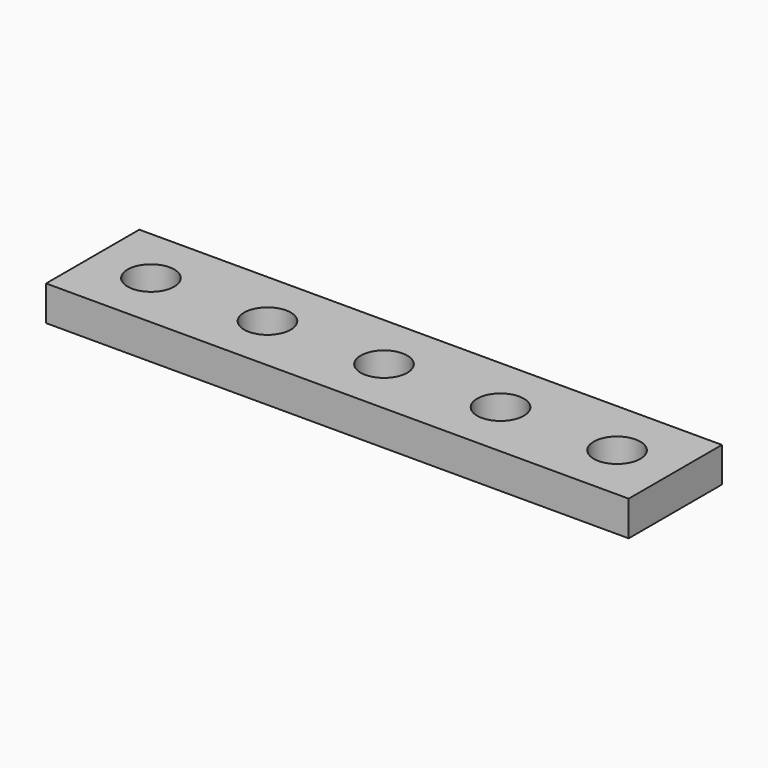
from build123d import *

# Parameters (mm, degrees)
CYLINDER001_R     = 2
CYLINDER001_DEPTH = 10
CYLINDER005_R     = 2
CYLINDER005_DEPTH = 10
CYLINDER004_R     = 2
CYLINDER004_DEPTH = 10
CYLINDER003_R     = 2
CYLINDER003_DEPTH = 10
CYLINDER002_R     = 2
CYLINDER002_DEPTH = 10
BOX_W             = 50
BOX_H             = 10
BOX_DEPTH         = 3


with BuildPart() as cilindro001:
    # Cylinder001 → Cylinder001 (new body)
    with BuildSketch(Plane(origin=(45, 5, 0), x_dir=(0, 1, 0), z_dir=(0, 0, 1))):
        Circle(CYLINDER001_R)
    extrude(amount=CYLINDER001_DEPTH)


with BuildPart() as cilindro005:
    # Cylinder005 → Cylinder005 (new body)
    with BuildSketch(Plane(origin=(35, 5, 0), x_dir=(0, 1, 0), z_dir=(0, 0, 1))):
        Circle(CYLINDER005_R)
    extrude(amount=CYLINDER005_DEPTH)


with BuildPart() as cilindro004:
    # Cylinder004 → Cylinder004 (new body)
    with BuildSketch(Plane(origin=(25, 5, 0), x_dir=(0, 1, 0), z_dir=(0, 0, 1))):
        Circle(CYLINDER004_R)
    extrude(amount=CYLINDER004_DEPTH)


with BuildPart() as cilindro003:
    # Cylinder003 → Cylinder003 (new body)
    with BuildSketch(Plane(origin=(15, 5, 0), x_dir=(0, 1, 0), z_dir=(0, 0, 1))):
        Circle(CYLINDER003_R)
    extrude(amount=CYLINDER003_DEPTH)


with BuildPart() as cilindro002:
    # Cylinder002 → Cylinder002 (new body)
    with BuildSketch(Plane(origin=(5, 5, 0), x_dir=(0, 1, 0), z_dir=(0, 0, 1))):
        Circle(CYLINDER002_R)
    extrude(amount=CYLINDER002_DEPTH)


with BuildPart() as cut004:
    # Box → Box (new body)
    with BuildSketch(Plane.XY):
        with Locations((25, 5)):
            Rectangle(BOX_W, BOX_H)
    extrude(amount=BOX_DEPTH)

    # Cut: cut Cilindro002
    add(cilindro002.part, mode=Mode.SUBTRACT)

    # Cut001: cut Cilindro003
    add(cilindro003.part, mode=Mode.SUBTRACT)

    # Cut002: cut Cilindro004
    add(cilindro004.part, mode=Mode.SUBTRACT)

    # Cut003: cut Cilindro005
    add(cilindro005.part, mode=Mode.SUBTRACT)

    # Cut004: cut Cilindro001
    add(cilindro001.part, mode=Mode.SUBTRACT)


solid = cut004.part
